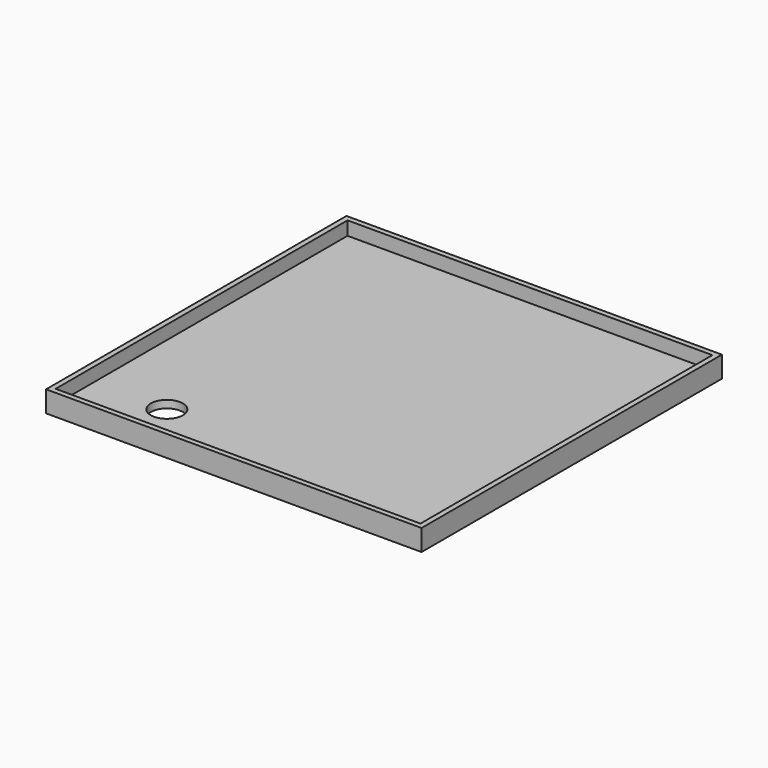
from build123d import *

# Parameters (mm, degrees)
F0_W     = 124
F0_H     = 124
F1_DEPTH = 7
F2_W     = 120.5
F2_H     = 120.5
F3_DEPTH = 4.5
F4_R     = 5.303301
F5_DEPTH = 7.001


with BuildPart() as f1:
    # F0 (on Top) → F1 (new body)
    with BuildSketch(Plane.XY):
        Rectangle(F0_W, F0_H)
    extrude(amount=F1_DEPTH)

    # F2 (on face) → F3 (cut)
    with BuildSketch(Plane.XY.offset(7)):
        Rectangle(F2_W, F2_H)
    extrude(amount=-F3_DEPTH, mode=Mode.SUBTRACT)

    # F4 (on face) → F5 (cut, through all)
    with BuildSketch(Plane(origin=(0, 0, 0), x_dir=(1, 0, 0), z_dir=(0, 0, -1))):
        with Locations((-36.093753, 44.531252)):
            Circle(F4_R)
    extrude(amount=-F5_DEPTH, mode=Mode.SUBTRACT)


solid = f1.part
